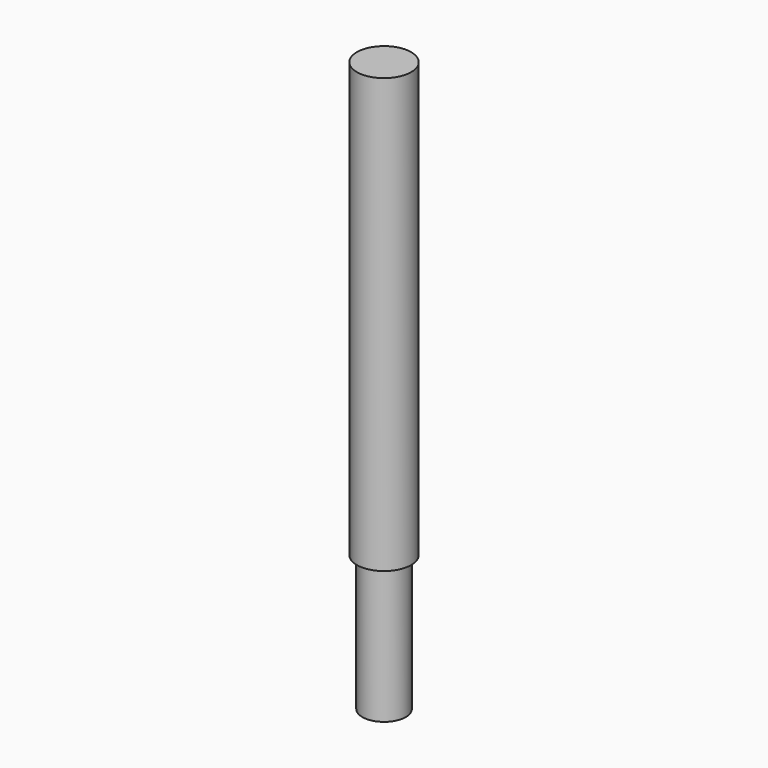
from build123d import *

# Parameters (mm, degrees)
CYLINDER_R        = 4
CYLINDER_DEPTH    = 25
CYLINDER001_R     = 5
CYLINDER001_DEPTH = 80


with BuildPart() as peg_in:
    # Cylinder → Cylinder (new body)
    with BuildSketch(Plane.XY):
        Circle(CYLINDER_R)
    extrude(amount=CYLINDER_DEPTH)


with BuildPart() as peg_out:
    # Cylinder001 → Cylinder001 (new body)
    with BuildSketch(Plane.XY.offset(25)):
        Circle(CYLINDER001_R)
    extrude(amount=CYLINDER001_DEPTH)


solid = Compound([peg_in.part, peg_out.part])
